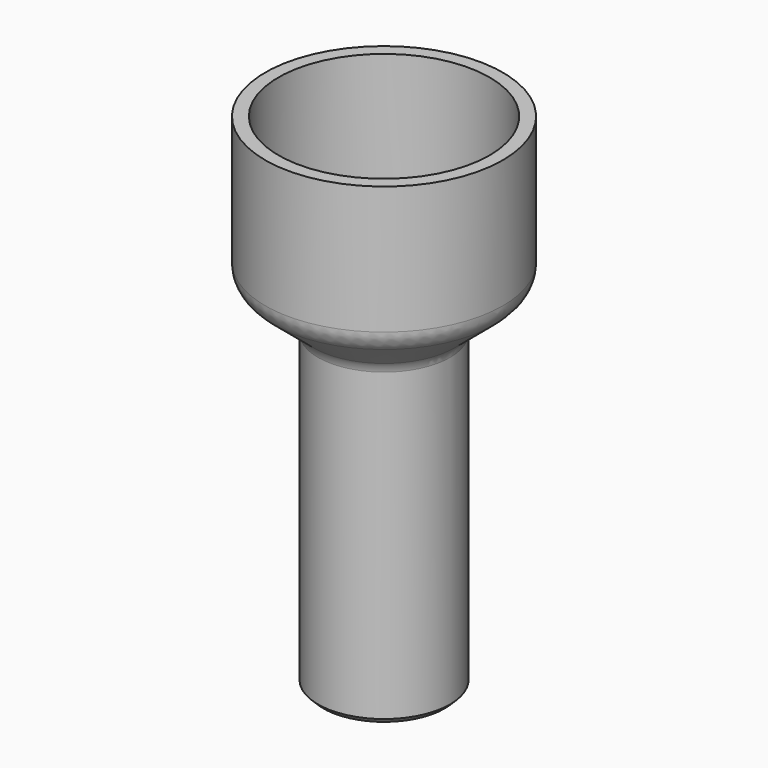
from build123d import *

# Parameters (mm, degrees)
F2_R    = 1.27
F3_SIZE = 0.508
F4_R    = 1.27
F5_R    = 2.54
F6_R    = 2.54


with BuildPart() as f1:
    # F0 (on Front) → F1 (revolve)
    with BuildSketch(Plane.XZ):
        Polygon((6.35, 0), (6.35, 30.48), (11.43, 34.742626), (11.43, 48.26), (10.16, 48.26), (10.16, 35.334837), (5.08, 31.072211), (5.08, 1.27), (0, 1.27), (0, 0), align=None)
    revolve(axis=Axis((0, 0, 19.968925), (0, 0, -1)))

    # F2
    f2_edges = [f1.edges().sort_by_distance(p)[0] for p in [
        (-5.08, 0, 1.27),
    ]]
    fillet(f2_edges, radius=F2_R)

    # F3
    f3_edges = [f1.edges().sort_by_distance(p)[0] for p in [
        (-6.35, 0, 0),
    ]]
    chamfer(f3_edges, length=F3_SIZE)

    # F4
    f4_edges = [f1.edges().sort_by_distance(p)[0] for p in [
        (-6.35, 0, 30.48),
    ]]
    fillet(f4_edges, radius=F4_R)

    # F5
    f5_edges = [f1.edges().sort_by_distance(p)[0] for p in [
        (-11.43, 0, 34.742626),
    ]]
    fillet(f5_edges, radius=F5_R)

    # F6
    f6_edges = [f1.edges().sort_by_distance(p)[0] for p in [
        (-10.16, 0, 35.334837),
        (-5.08, 0, 31.072211),
    ]]
    fillet(f6_edges, radius=F6_R)


with BuildPart() as f7_1:
    # F7: copy of F1
    add(f1.part.moved(Location((69.85, 0, 0))))


solid = f1.part
